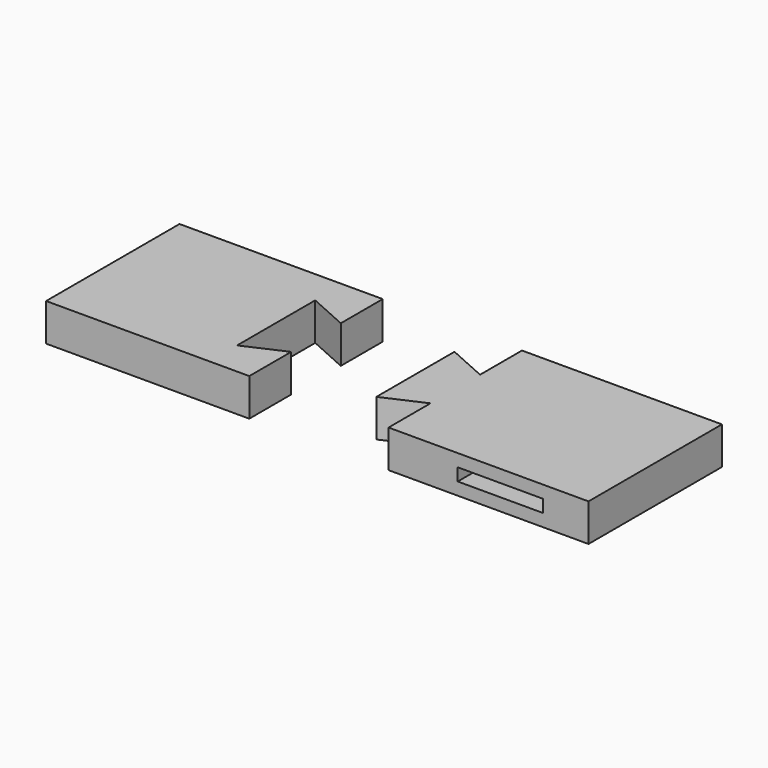
from build123d import *

# Parameters (mm, degrees)
F1_DEPTH = 4.5
F3_DEPTH = 4.5
F5_START = 0.5
F5_DEPTH = 3.5
F6_START = 1.5
F6_DEPTH = 1.5


with BuildPart() as f1:
    # F0 (on Top) → F1 (new body)
    with BuildSketch(Plane.XY):
        Polygon((0, 20), (-24.368322147, 20), (-24.368322147, 0), (0, 0), (0, 6.2835517034), (-4.7773355618, 4.144249931), (-4.7773355618, 15.855750069), (0, 13.7164482966), align=None)
    extrude(amount=F1_DEPTH)


with BuildPart() as f1_1:
    # F2: moved
    add(f1.part.moved(Location((-16.7, 0, 0))))


with BuildPart() as f3:
    # F0 (on Top) → F3 (new body)
    with BuildSketch(Plane.XY):
        Polygon((23.976402601, 20), (0, 20), (0, 13.7164482966), (-4.7773355618, 15.855750069), (-4.7773355618, 4.144249931), (0, 6.2835517034), (0, 0), (23.976402601, 0), align=None)
    extrude(amount=F3_DEPTH)

    # F4 (on face) → F5 (cut)
    with BuildSketch(Plane.XY.offset(F5_START)):
        with BuildLine():
            ThreePointArc((8.2974242262, 9.8713797575), (13.3488142851, 4.9766339882), (18.2963220524, 9.9763584371))
            ThreePointArc((18.2963220524, 9.9763584371), (18.2960450709, 10.0289867385), (18.2952141571, 10.0816092091))
            ThreePointArc((18.2952141571, 10.0816092091), (13.2961859761, 14.9763584353), (8.2974242262, 10.0813371168))
            Line((8.2974242262, 10.0813371168), (8.2974242262, 9.8713797575))
        make_face()
    extrude(amount=F5_DEPTH, mode=Mode.SUBTRACT)

    # F4 (on face) → F6 (cut)
    with BuildSketch(Plane.XY.offset(F6_START)):
        with BuildLine():
            ThreePointArc((18.2952141571, 10.0816092091), (18.2960450709, 10.0289867385), (18.2963220524, 9.9763584371))
            ThreePointArc((18.2963220524, 9.9763584371), (13.3488142851, 4.9766339882), (8.2974242262, 9.8713797575))
            Line((8.2974242262, 9.8713797575), (8.2974242262, 0))
            Line((8.2974242262, 0), (18.5074806213, 0))
            Line((18.5074806213, 0), (18.2952141571, 10.0816092091))
        make_face()
    extrude(amount=F6_DEPTH, mode=Mode.SUBTRACT)


solid = Compound([f1_1.part, f3.part])
